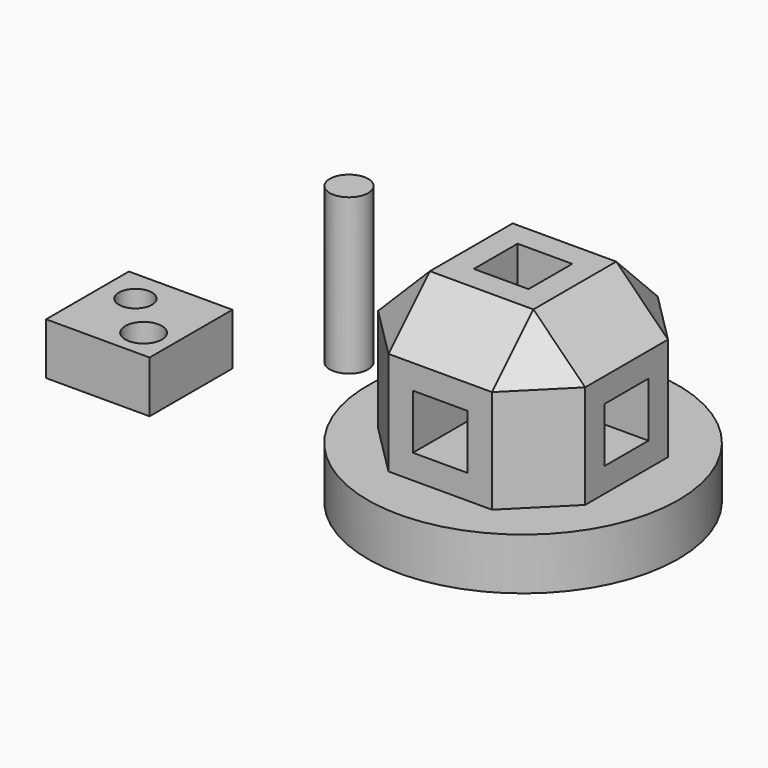
from build123d import *

# Parameters (mm, degrees)
F0_R      = 15
F0_R_2    = 1.87
F0_R_3    = 1.865
F0_R_4    = 1.86
F1_DEPTH  = 5
F2_R      = 1.855
F3_DEPTH  = 15
F4_W      = 10
F4_H      = 10
F4_R      = 1.77
F4_R_2    = 1.6
F5_DEPTH  = 5
F6_W      = 20
F6_H      = 20
F6_W_2    = 5.28
F6_H_2    = 5.28
F7_DEPTH  = 20
F8_W      = 5.28
F8_H      = 5.28
F9_DEPTH  = 25
F10_W     = 5.28
F10_H     = 5.28
F11_DEPTH = 25
F12_SIZE  = 5
F13_DEPTH = 15


with BuildPart() as f1:
    # F0 (on Top) → F1 (new body)
    with BuildSketch(Plane.XY):
        Circle(F0_R)
        with Locations((-6.87702, -5.257264)):
            Circle(F0_R_2, mode=Mode.SUBTRACT)
        Circle(F0_R_3, mode=Mode.SUBTRACT)
        with Locations((5.911977, 5.933111)):
            Circle(F0_R_4, mode=Mode.SUBTRACT)
    extrude(amount=F1_DEPTH)


with BuildPart() as f3:
    # F2 (on Top) → F3 (new body)
    with BuildSketch(Plane.XY):
        with Locations((-24.461024, 9.560991)):
            Circle(F2_R)
    extrude(amount=F3_DEPTH)


with BuildPart() as f5:
    # F4 (on Top) → F5 (new body)
    with BuildSketch(Plane.XY):
        with Locations((-35.694532, -1.720287)):
            Rectangle(F4_W, F4_H)
        with Locations((-33.576981, -3.837838)):
            Circle(F4_R, mode=Mode.SUBTRACT)
        with Locations((-37.538031, 0.123212)):
            Circle(F4_R_2, mode=Mode.SUBTRACT)
    extrude(amount=F5_DEPTH)


with BuildPart() as f7:
    # F6 (on Top) → F7 (new body)
    with BuildSketch(Plane.XY):
        Rectangle(F6_W, F6_H)
        Rectangle(F6_W_2, F6_H_2, mode=Mode.SUBTRACT)
    extrude(amount=F7_DEPTH)

    # F8 (on face) → F9 (cut)
    with BuildSketch(Plane(origin=(0, 10, 0), x_dir=(-1, 0, 0), z_dir=(0, 1, 0))):
        with Locations((0, 10)):
            Rectangle(F8_W, F8_H)
    extrude(amount=-F9_DEPTH, mode=Mode.SUBTRACT)

    # F10 (on face) → F11 (cut)
    with BuildSketch(Plane.YZ.offset(10)):
        with Locations((0, 10)):
            Rectangle(F10_W, F10_H)
    extrude(amount=-F11_DEPTH, mode=Mode.SUBTRACT)

    # F12
    f12_edges = [f7.edges().sort_by_distance(p)[0] for p in [
        (0, 10, 0),
        (0, 10, 20),
        (0, -10, 20),
        (0, -10, 0),
        (10, 0, 0),
        (10, 10, 10),
        (10, 0, 20),
        (10, -10, 10),
        (-10, -10, 10),
        (-10, 0, 20),
        (-10, 10, 10),
        (-10, 0, 0),
    ]]
    chamfer(f12_edges, length=F12_SIZE)


with BuildPart() as f13:
    # F6 (on Top) → F13 (new body)
    with BuildSketch(Plane.XY):
        Rectangle(F6_W_2, F6_H_2)
    extrude(amount=F13_DEPTH)


solid = Compound([f1.part, f3.part, f5.part, f7.part, f13.part])
